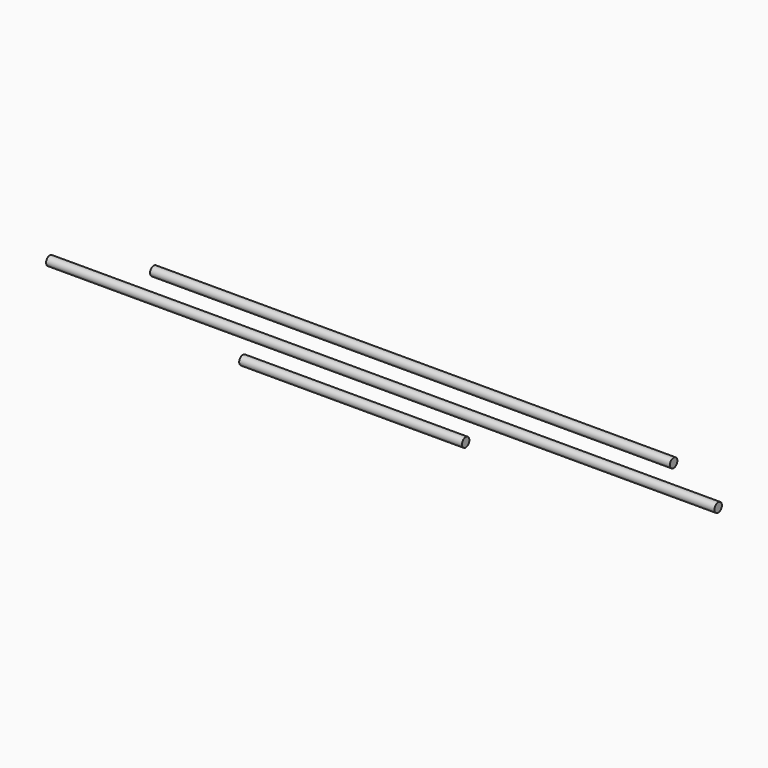
from build123d import *

# Parameters (mm, degrees)
F0_R     = 3.175
F1_DEPTH = 177.8
F2_R     = 3.175
F3_DEPTH = 228.6
F4_R     = 3.175
F5_DEPTH = 76.2


with BuildPart() as f1:
    # F0 (on Right) → F1 (new body, symmetric)
    with BuildSketch(Plane.YZ):
        Circle(F0_R)
    extrude(amount=F1_DEPTH, both=True)


with BuildPart() as f3:
    # F2 (on Right) → F3 (new body, symmetric)
    with BuildSketch(Plane.YZ):
        with Locations((-25.4, 0)):
            Circle(F2_R)
    extrude(amount=F3_DEPTH, both=True)


with BuildPart() as f5:
    # F4 (on Right) → F5 (new body, symmetric)
    with BuildSketch(Plane.YZ):
        with Locations((-50.8, 0)):
            Circle(F4_R)
    extrude(amount=F5_DEPTH, both=True)


solid = Compound([f1.part, f3.part, f5.part])
